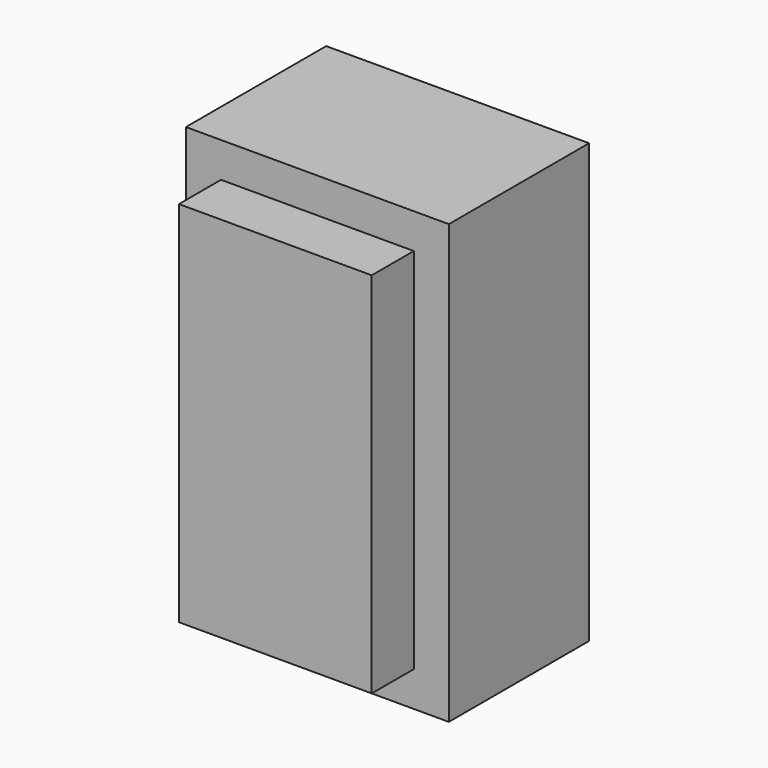
from build123d import *

# Parameters (mm, degrees)
BOX025_W                  = 11
BOX025_H                  = 7
BOX025_DEPTH              = 21
BOX024_W                  = 15
BOX024_H                  = 10
BOX024_DEPTH              = 25
FUSION005_PLACEMENT_ANGLE = 180


with BuildPart() as box025:
    # Box025 → Box025 (new body)
    with BuildSketch(Plane(origin=(227, 236, 227), x_dir=(1, 0, 0), z_dir=(0, 0, 1))):
        with Locations((5.5, 3.5)):
            Rectangle(BOX025_W, BOX025_H)
    extrude(amount=BOX025_DEPTH)


with BuildPart() as ac_plug_switch:
    # Box024 → Box024 (new body)
    with BuildSketch(Plane(origin=(225, 230, 225), x_dir=(1, 0, 0), z_dir=(0, 0, 1))):
        with Locations((7.5, 5)):
            Rectangle(BOX024_W, BOX024_H)
    extrude(amount=BOX024_DEPTH)

    # Fusion005: union Box025
    add(box025.part)


with BuildPart() as ac_plug_switch_1:
    # Fusion005 placement: moved
    add(ac_plug_switch.part.moved(Location((510, 238, -90))).rotate(Axis((510, 238, -90), (0, 0, 1)), FUSION005_PLACEMENT_ANGLE))


solid = ac_plug_switch_1.part
